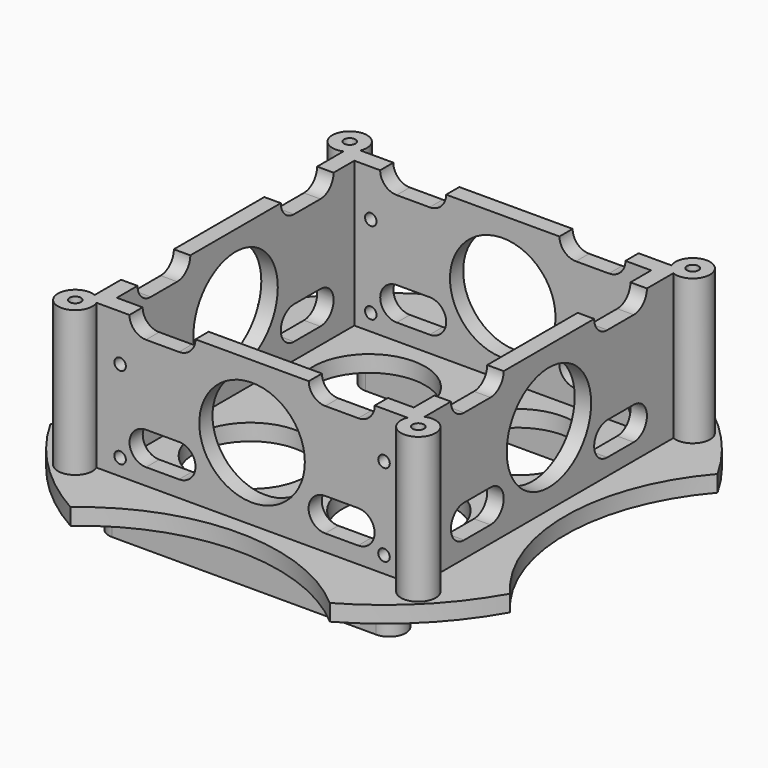
from build123d import *

# Parameters (mm, degrees)
SKETCH_R        = 80
PAD_DEPTH       = 5
PAD001_DEPTH    = 44
SKETCH003_W     = 90
SKETCH003_H     = 90
POCKET_DEPTH    = 44
SKETCH004_R     = 1.75
POCKET001_DEPTH = 49.001
SKETCH005_R     = 17
SKETCH005_R_2   = 60
POCKET002_DEPTH = 5.001
SKETCH006_R     = 16
POCKET003_DEPTH = 119.674913
SKETCH007_R     = 16
POCKET004_DEPTH = 119.674913
SKETCH010_R     = 1.75
POCKET005_DEPTH = 119.674913
PAD002_DEPTH    = 10


with BuildPart() as part:
    # Sketch → Pad (new body)
    with BuildSketch(Plane.XY):
        Circle(SKETCH_R)
    extrude(amount=PAD_DEPTH)

    # Sketch002 → Pad001 (new body)
    with BuildSketch(Plane.XY.offset(5)):
        with BuildLine():
            ThreePointArc((-47.145878, 50), (-55.712311, 55.712311), (-50, 47.145878))
            Line((-50, -47.145878), (-50, 47.145878))
            ThreePointArc((-50, -47.145878), (-55.712311, -55.712311), (-47.145878, -50))
            Line((47.145878, -50), (-47.145878, -50))
            ThreePointArc((47.145878, -50), (55.712311, -55.712311), (50, -47.145878))
            Line((50, 47.145878), (50, -47.145878))
            ThreePointArc((50, 47.145878), (55.712311, 55.712311), (47.145878, 50))
            Line((-47.145878, 50), (47.145878, 50))
        make_face()
    extrude(amount=PAD001_DEPTH)

    # Sketch003 → Pocket (cut)
    with BuildSketch(Plane.XY.offset(49)):
        Rectangle(SKETCH003_W, SKETCH003_H)
    extrude(amount=-POCKET_DEPTH, mode=Mode.SUBTRACT)

    # Sketch004 → Pocket001 (cut, through all)
    with BuildSketch(Plane.XY.offset(49)):
        with Locations((-52, -52)):
            Circle(SKETCH004_R)
        with Locations((52, 52)):
            Circle(SKETCH004_R)
        with Locations((52, -52)):
            Circle(SKETCH004_R)
        with Locations((-52, 52)):
            Circle(SKETCH004_R)
    extrude(amount=-POCKET001_DEPTH, mode=Mode.SUBTRACT)

    # Sketch005 → Pocket002 (cut, through all)
    with BuildSketch(Plane.XY.offset(5)):
        with Locations((-22.5, 22.5)):
            Circle(SKETCH005_R)
        with Locations((22.5, 22.5)):
            Circle(SKETCH005_R)
        with Locations((-22.5, -22.5)):
            Circle(SKETCH005_R)
        with Locations((22.5, -22.5)):
            Circle(SKETCH005_R)
        with Locations((0, -115)):
            Circle(SKETCH005_R_2)
        with Locations((-115, 0)):
            Circle(SKETCH005_R_2)
        with Locations((115, 0)):
            Circle(SKETCH005_R_2)
        with Locations((0, 115)):
            Circle(SKETCH005_R_2)
    extrude(amount=-POCKET002_DEPTH, mode=Mode.SUBTRACT)

    # Sketch006 → Pocket003 (cut, through all)
    with BuildSketch(Plane.YZ.offset(50)):
        with Locations((0, 27)):
            Circle(SKETCH006_R)
        with BuildLine():
            ThreePointArc((-32.145847, 20), (-37.145878, 15.000015), (-32.145878, 10))
            Line((-32.145878, 10), (-22.145878, 10))
            ThreePointArc((-22.145878, 10), (-17.145878, 14.999986), (-22.145849, 20))
            Line((-32.145847, 20), (-22.145849, 20))
        make_face()
        with BuildLine():
            ThreePointArc((22.145861, 20), (17.145878, 14.999992), (22.145878, 10))
            Line((22.145878, 10), (32.145878, 10))
            ThreePointArc((32.145878, 10), (37.145878, 15.000009), (32.14586, 20))
            Line((22.145861, 20), (32.14586, 20))
        make_face()
        with BuildLine():
            ThreePointArc((-32.145895, 54), (-37.145878, 49), (-32.145895, 44))
            Line((-32.145895, 44), (-22.145886, 44))
            ThreePointArc((-22.145886, 44), (-17.145878, 48.999999), (-22.145885, 54))
            Line((-32.145895, 54), (-22.145885, 54))
        make_face()
        with BuildLine():
            ThreePointArc((22.145867, 54), (17.145878, 49), (22.145867, 44))
            Line((22.145867, 44), (32.145858, 44))
            ThreePointArc((32.145858, 44), (37.145878, 49), (32.145857, 54))
            Line((22.145867, 54), (32.145857, 54))
        make_face()
    extrude(amount=-POCKET003_DEPTH, mode=Mode.SUBTRACT)

    # Sketch007 → Pocket004 (cut, through all)
    with BuildSketch(Plane.XZ.offset(50)):
        with Locations((0, 27)):
            Circle(SKETCH007_R)
        with BuildLine():
            ThreePointArc((-32.165386, 54), (-37.165371, 48.999992), (-32.165371, 44))
            Line((-32.165371, 44), (-22.165371, 44))
            ThreePointArc((-22.165371, 44), (-17.165371, 49.000008), (-22.165388, 54))
            Line((-32.165386, 54), (-22.165388, 54))
        make_face()
        with BuildLine():
            ThreePointArc((32.189297, 44), (37.189317, 48.99999), (32.189316, 54))
            Line((32.189316, 54), (22.189316, 54))
            ThreePointArc((22.189316, 54), (17.189317, 49.000008), (22.189299, 44))
            Line((32.189297, 44), (22.189299, 44))
        make_face()
        with BuildLine():
            ThreePointArc((-32.145897, 20), (-37.145878, 14.99999), (-32.145878, 10))
            Line((-32.145878, 10), (-22.145878, 10))
            ThreePointArc((-22.145878, 10), (-17.145878, 15.000011), (-22.145899, 20))
            Line((-32.145897, 20), (-22.145899, 20))
        make_face()
        with BuildLine():
            ThreePointArc((22.145901, 20), (17.145878, 15.000011), (22.145878, 10))
            Line((22.145878, 10), (32.145878, 10))
            ThreePointArc((32.145878, 10), (37.145878, 14.999989), (32.1459, 20))
            Line((22.145901, 20), (32.1459, 20))
        make_face()
    extrude(amount=-POCKET004_DEPTH, mode=Mode.SUBTRACT)

    # Sketch010 → Pocket005 (cut, through all)
    with BuildSketch(Plane(origin=(0, 50, 0), x_dir=(-1, 0, 0), z_dir=(0, 1, 0))):
        with Locations((-40, 34.992924)):
            Circle(SKETCH010_R)
        with Locations((-40, 10)):
            Circle(SKETCH010_R)
        with Locations((40, 10)):
            Circle(SKETCH010_R)
        with Locations((40, 34.941413)):
            Circle(SKETCH010_R)
    extrude(amount=-POCKET005_DEPTH, mode=Mode.SUBTRACT)

    # Sketch008 → Pad002 (new body)
    with BuildSketch(Plane(origin=(0, 0, 0), x_dir=(1, 0, 0), z_dir=(0, 0, -1))):
        with BuildLine():
            ThreePointArc((-40.000017, 53), (-45, 48), (-40.000017, 43))
            Line((-40.000017, 43), (39.999994, 43))
            ThreePointArc((39.999994, 43), (45, 48), (39.999994, 53))
            Line((-40.000017, 53), (39.999994, 53))
        make_face()
        with BuildLine():
            ThreePointArc((-39.99998, -43), (-45, -48), (-39.99998, -53))
            Line((-39.99998, -53), (40.00001, -53))
            ThreePointArc((40.00001, -53), (45, -48), (40.00001, -43))
            Line((-39.99998, -43), (40.00001, -43))
        make_face()
    extrude(amount=PAD002_DEPTH)


solid = part.part
